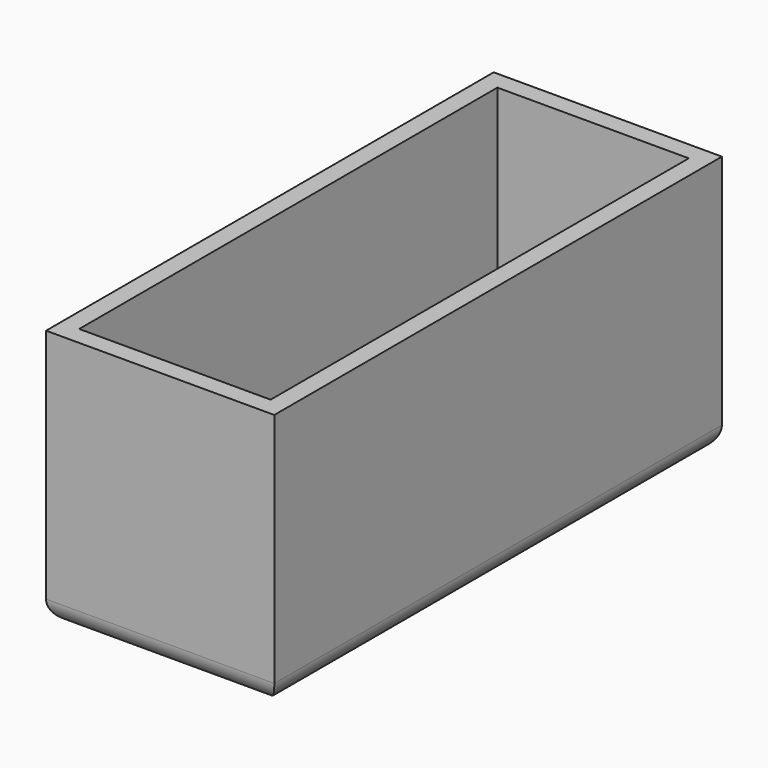
from build123d import *

# Parameters (mm, degrees)
F0_W     = 31
F0_H     = 76
F1_DEPTH = 35
F2_T     = -2.5
F3_R     = 2.9


with BuildPart() as f1:
    # F0 (on Top) → F1 (new body)
    with BuildSketch(Plane.XY):
        with Locations((-5.62528, -5.040663)):
            Rectangle(F0_W, F0_H)
    extrude(amount=F1_DEPTH)

    # F2
    f2_openings = [f1.faces().sort_by_distance(p)[0] for p in [
        (-5.62528, -5.040663, 35),
    ]]
    offset(amount=F2_T, openings=f2_openings)

    # F3
    f3_edges = [f1.edges().sort_by_distance(p)[0] for p in [
        (-5.62528, -43.040663, 0),
        (9.87472, -5.040663, 0),
        (-21.12528, -5.040663, 0),
        (-5.62528, 32.959337, 0),
    ]]
    fillet(f3_edges, radius=F3_R)


solid = f1.part
